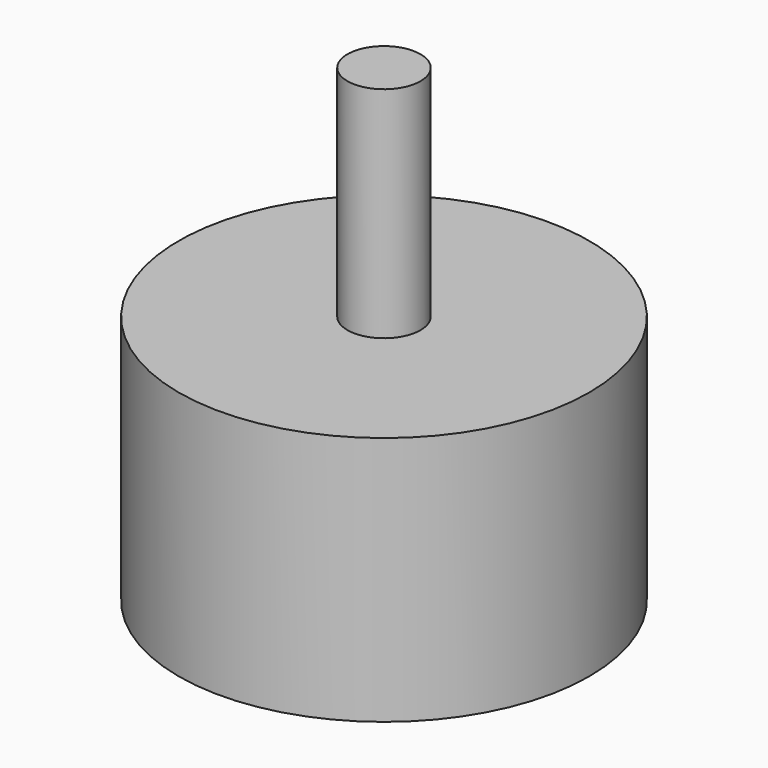
from build123d import *

# Parameters (mm, degrees)
F0_R     = 14.05
F1_DEPTH = 17.1
F2_R     = 2.5
F3_DEPTH = 15
F5_DEPTH = 5


with BuildPart() as f1:
    # F0 (on Top) → F1 (new body)
    with BuildSketch(Plane.XY):
        Circle(F0_R)
    extrude(amount=F1_DEPTH)

    # F2 (on face) → F3 (join)
    with BuildSketch(Plane.XY.offset(17.1)):
        Circle(F2_R)
    extrude(amount=F3_DEPTH)

    # F4 (on face) → F5 (cut)
    with BuildSketch(Plane(origin=(0, 0, 0), x_dir=(1, 0, 0), z_dir=(0, 0, -1))):
        with BuildLine():
            ThreePointArc((-6.275573, 7.159456), (-7.159456, 7.159456), (-7.159456, 6.275573))
            Line((-7.159456, 6.275573), (-6.098796, 5.214913))
            ThreePointArc((-6.098796, 5.214913), (-5.214913, 5.214913), (-5.214913, 6.098796))
            Line((-5.214913, 6.098796), (-6.275573, 7.159456))
        make_face()
        with BuildLine():
            ThreePointArc((7.159456, 6.275573), (7.159456, 7.159456), (6.275573, 7.159456))
            Line((6.275573, 7.159456), (5.214913, 6.098796))
            ThreePointArc((5.214913, 6.098796), (5.214913, 5.214913), (6.098796, 5.214913))
            Line((6.098796, 5.214913), (7.159456, 6.275573))
        make_face()
        with BuildLine():
            ThreePointArc((6.275573, -7.159456), (7.159456, -7.159456), (7.159456, -6.275573))
            Line((7.159456, -6.275573), (6.098796, -5.214913))
            ThreePointArc((6.098796, -5.214913), (5.214913, -5.214913), (5.214913, -6.098796))
            Line((5.214913, -6.098796), (6.275573, -7.159456))
        make_face()
        with BuildLine():
            ThreePointArc((-7.159456, -6.275573), (-7.159456, -7.159456), (-6.275573, -7.159456))
            Line((-6.275573, -7.159456), (-5.214913, -6.098796))
            ThreePointArc((-5.214913, -6.098796), (-5.214913, -5.214913), (-6.098796, -5.214913))
            Line((-6.098796, -5.214913), (-7.159456, -6.275573))
        make_face()
    extrude(amount=-F5_DEPTH, mode=Mode.SUBTRACT)


solid = f1.part
